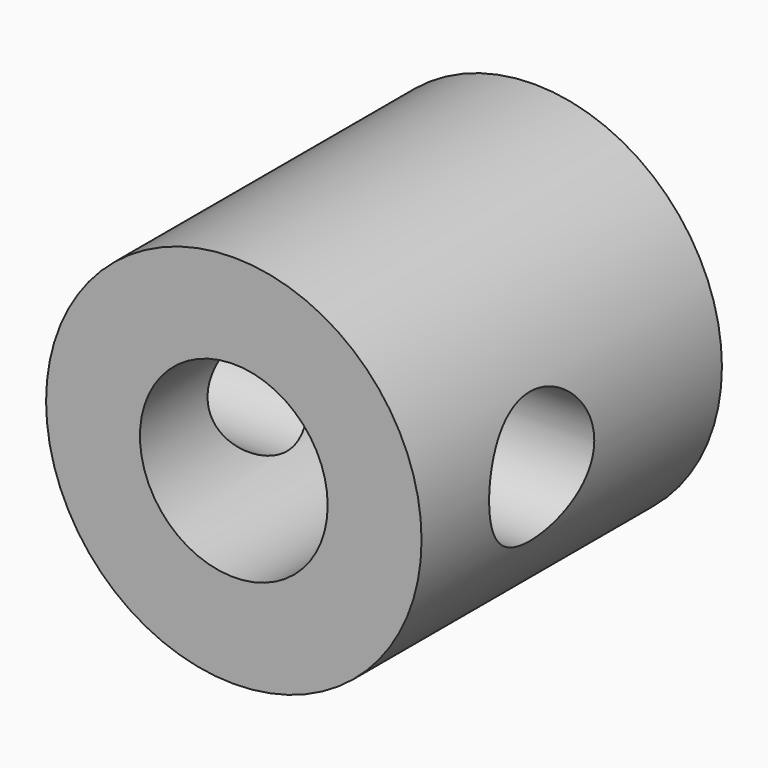
from build123d import *

# Parameters (mm, degrees)
F0_R     = 5
F0_R_2   = 2.5
F1_DEPTH = 7
F2_R     = 5
F3_DEPTH = 3
F4_R     = 1.75
F5_DEPTH = 12.5


with BuildPart() as f1:
    # F0 (on Front) → F1 (new body)
    with BuildSketch(Plane.XZ):
        Circle(F0_R)
        Circle(F0_R_2, mode=Mode.SUBTRACT)
    extrude(amount=F1_DEPTH)

    # F2 (on Front) → F3 (join)
    with BuildSketch(Plane.XZ):
        Circle(F2_R)
    extrude(amount=-F3_DEPTH)

    # F4 (on Right) → F5 (cut, symmetric)
    with BuildSketch(Plane.YZ):
        with Locations((-3, 0)):
            Circle(F4_R)
    extrude(amount=F5_DEPTH, both=True, mode=Mode.SUBTRACT)


solid = f1.part
